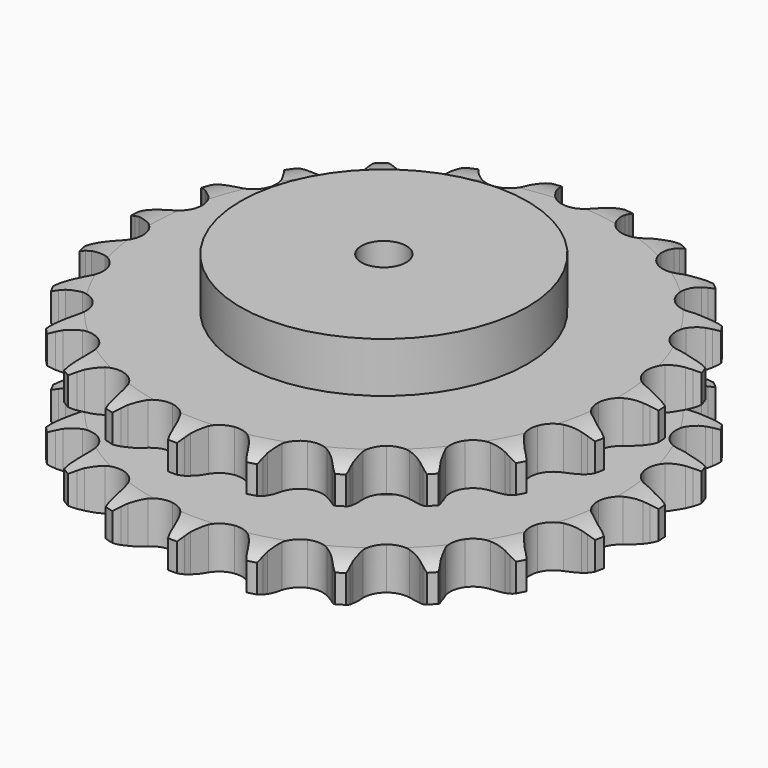
from build123d import *

# Parameters (mm, degrees)
PAD_DEPTH         = 72
SKETCH001_R       = 80
PAD001_DEPTH      = 100
SKETCH002_R       = 12.5
POCKET_DEPTH      = 0.001
POCKET_DEPTH_BACK = 100.001


with BuildPart() as part:
    # Sprocket → Pad (new body)
    with BuildSketch(Plane.XY):
        with BuildLine():
            ThreePointArc((-20.622899, 150.04273), (-17.858875, 146.726201), (-15.834347, 142.913002))
            Line((-15.834347, 142.913002), (-14.602945, 139.871822))
            ThreePointArc((-14.602945, 139.871822), (-12.636839, 135.829035), (-10.14139, 132.089725))
            ThreePointArc((-10.14139, 132.089725), (-5.65111, 128.415327), (0, 127.100499))
            ThreePointArc((0, 127.100499), (5.65111, 128.415327), (10.14139, 132.089725))
            ThreePointArc((10.14139, 132.089725), (12.636839, 135.829035), (14.602945, 139.871822))
            Line((14.602945, 139.871822), (15.834347, 142.913002))
            ThreePointArc((15.834347, 142.913002), (17.858875, 146.726201), (20.622899, 150.04273))
            ThreePointArc((20.622899, 150.04273), (22.389636, 146.103462), (23.3103, 141.885456))
            Line((23.3103, 141.885456), (23.675538, 138.624823))
            ThreePointArc((23.675538, 138.624823), (24.478004, 134.201504), (25.872062, 129.927594))
            ThreePointArc((25.872062, 129.927594), (29.204489, 125.17799), (34.291304, 122.387268))
            ThreePointArc((34.291304, 122.387268), (40.087592, 122.128687), (45.402701, 124.455366))
            Line((45.402701, 124.455366), (51.798394, 130.745168))
            ThreePointArc((51.798394, 130.745168), (52.769346, 132.068114), (53.804633, 133.341345))
            ThreePointArc((53.804633, 133.341345), (56.782875, 136.466928), (60.33919, 138.914748))
            ThreePointArc((60.33919, 138.914748), (60.977609, 134.644898), (60.726129, 130.334915))
            Line((60.726129, 130.334915), (60.198114, 127.096654))
            ThreePointArc((60.198114, 127.096654), (59.777426, 122.620862), (59.966701, 118.129328))
            ThreePointArc((59.966701, 118.129328), (61.894125, 112.656773), (66.039379, 108.597133))
            ThreePointArc((66.039379, 108.597133), (71.550961, 106.784322), (77.296701, 107.590721))
            Line((77.296701, 107.590721), (85.152193, 111.921743))
            ThreePointArc((85.152193, 111.921743), (86.444067, 112.933671), (87.784475, 113.88037))
            ThreePointArc((87.784475, 113.88037), (91.495548, 116.086528), (95.580399, 117.484093))
            ThreePointArc((95.580399, 117.484093), (95.043153, 113.200338), (93.638179, 109.118029))
            Line((93.638179, 109.118029), (92.256072, 106.142309))
            ThreePointArc((92.256072, 106.142309), (90.643429, 101.945991), (89.613884, 97.569949))
            ThreePointArc((89.613884, 97.569949), (89.993357, 91.780319), (92.889616, 86.752845))
            ThreePointArc((92.889616, 86.752845), (97.707722, 83.520251), (103.457959, 82.746565))
            Line((103.457959, 82.746565), (112.190644, 84.797594))
            ThreePointArc((112.190644, 84.797594), (113.707626, 85.423454), (115.253745, 85.973409))
            ThreePointArc((115.253745, 85.973409), (119.422416, 87.096521), (123.732848, 87.340181))
            ThreePointArc((123.732848, 87.340181), (122.059781, 83.360226), (119.605513, 79.808358))
            Line((119.605513, 79.808358), (117.471819, 77.315874))
            ThreePointArc((117.471819, 77.315874), (114.786824, 73.710252), (112.614816, 69.774254))
            ThreePointArc((112.614816, 69.774254), (111.418193, 64.096939), (112.850654, 58.474496))
            ThreePointArc((112.850654, 58.474496), (116.617949, 54.061866), (121.946213, 51.765475))
            Line((121.946213, 51.765475), (130.908427, 51.384396))
            ThreePointArc((130.908427, 51.384396), (132.538011, 51.57777), (134.175172, 51.690193))
            ThreePointArc((134.175172, 51.690193), (138.492269, 51.646964), (142.708597, 50.718648))
            ThreePointArc((142.708597, 50.718648), (140.023793, 47.337668), (136.702253, 44.579667))
            Line((136.702253, 44.579667), (133.975218, 42.755274))
            ThreePointArc((133.975218, 42.755274), (130.417005, 40.007762), (127.263621, 36.803722))
            ThreePointArc((127.263621, 36.803722), (124.579651, 31.659782), (124.442076, 25.859361))
            ThreePointArc((124.442076, 25.859361), (126.879156, 20.593959), (131.390275, 16.945176))
            Line((131.390275, 16.945176), (139.917332, 14.160252))
            ThreePointArc((139.917332, 14.160252), (141.538658, 13.906799), (143.14544, 13.573353))
            ThreePointArc((143.14544, 13.573353), (147.290784, 12.366987), (151.100303, 10.335544))
            ThreePointArc((151.100303, 10.335544), (147.602881, 7.804292), (143.660413, 6.044705))
            Line((143.660413, 6.044705), (140.542289, 5.023711))
            ThreePointArc((140.542289, 5.023711), (136.374754, 3.338078), (132.473867, 1.103626))
            ThreePointArc((132.473867, 1.103626), (128.501607, -3.125436), (126.804198, -8.673645))
            ThreePointArc((126.804198, -8.673645), (127.730316, -14.401307), (131.089721, -19.131869))
            Line((131.089721, -19.131869), (138.549208, -24.114093))
            ThreePointArc((138.549208, -24.114093), (140.04203, -24.795576), (141.499265, -25.550161))
            ThreePointArc((141.499265, -25.550161), (145.165415, -27.830192), (148.28559, -30.8141))
            ThreePointArc((148.28559, -30.8141), (144.234938, -32.307893), (139.963937, -32.938565))
            Line((139.963937, -32.938565), (136.68598, -33.080437))
            ThreePointArc((136.68598, -33.080437), (132.218211, -33.579175), (127.859131, -34.678321))
            ThreePointArc((127.859131, -34.678321), (122.893186, -37.678855), (119.761833, -42.563366))
            ThreePointArc((119.761833, -42.563366), (119.108303, -48.328495), (121.066842, -53.789991))
            Line((121.066842, -53.789991), (126.905523, -60.600006))
            ThreePointArc((126.905523, -60.600006), (128.159125, -61.658976), (129.358737, -62.778737))
            ThreePointArc((129.358737, -62.778737), (132.273792, -65.963333), (134.473213, -69.678403))
            ThreePointArc((134.473213, -69.678403), (130.16975, -70.023949), (125.886976, -69.478932))
            Line((125.886976, -69.478932), (122.692298, -68.731161))
            ThreePointArc((122.692298, -68.731161), (118.255648, -68.006014), (113.761669, -67.888335))
            ThreePointArc((113.761669, -67.888335), (108.17034, -69.437806), (103.837281, -73.296357))
            ThreePointArc((103.837281, -73.296357), (101.652572, -78.671379), (102.064989, -84.458755))
            Line((102.064989, -84.458755), (105.849836, -92.591494))
            ThreePointArc((105.849836, -92.591494), (106.771244, -93.949412), (107.624264, -95.351301))
            ThreePointArc((107.624264, -95.351301), (109.572027, -99.204276), (110.687574, -103.374977))
            ThreePointArc((110.687574, -103.374977), (106.450467, -102.54665), (102.473554, -100.866364))
            Line((102.473554, -100.866364), (99.59909, -99.284409))
            ThreePointArc((99.59909, -99.284409), (95.522605, -97.389159), (91.227024, -96.063383))
            ThreePointArc((91.227024, -96.063383), (85.424994, -96.046872), (80.211593, -98.593292))
            ThreePointArc((80.211593, -98.593292), (76.657735, -103.179566), (75.493443, -108.8636))
            Line((75.493443, -108.8636), (76.943751, -117.715894))
            ThreePointArc((76.943751, -117.715894), (77.464629, -119.27205), (77.907791, -120.852095))
            ThreePointArc((77.907791, -120.852095), (78.743805, -125.087691), (78.692743, -129.404703))
            ThreePointArc((78.692743, -129.404703), (74.83624, -127.463934), (71.460138, -124.773))
            Line((71.460138, -124.773), (69.119072, -122.474187))
            ThreePointArc((69.119072, -122.474187), (65.705087, -119.549395), (61.926488, -117.113848))
            ThreePointArc((61.926488, -117.113848), (56.344068, -115.532581), (50.636977, -116.578014))
            ThreePointArc((50.636977, -116.578014), (45.977545, -120.035398), (43.322893, -125.194529))
            Line((43.322893, -125.194529), (42.3311, -134.109845))
            ThreePointArc((42.3311, -134.109845), (42.412817, -135.748825), (42.413254, -137.389842))
            ThreePointArc((42.413254, -137.389842), (42.075516, -141.693925), (40.861632, -145.837073))
            ThreePointArc((40.861632, -145.837073), (37.671752, -142.927802), (35.146849, -139.425793))
            Line((35.146849, -139.425793), (33.51281, -136.580614))
            ThreePointArc((33.51281, -136.580614), (31.014523, -132.8432), (28.033147, -129.478515))
            ThreePointArc((28.033147, -129.478515), (23.08436, -126.449767), (17.306849, -125.916678))
            ThreePointArc((17.306849, -125.916678), (11.88741, -127.988753), (7.939283, -132.240353))
            Line((7.939283, -132.240353), (4.578945, -140.557482))
            ThreePointArc((4.578945, -140.557482), (4.21544, -142.157732), (3.77312, -143.738013))
            ThreePointArc((3.77312, -143.738013), (2.286678, -147.791368), (0, -151.453375))
            ThreePointArc((0, -151.453375), (-2.286678, -147.791368), (-3.77312, -143.738013))
            Line((-3.77312, -143.738013), (-4.578945, -140.557482))
            ThreePointArc((-4.578945, -140.557482), (-5.976246, -136.284632), (-7.939283, -132.240353))
            ThreePointArc((-7.939283, -132.240353), (-11.88741, -127.988753), (-17.306849, -125.916678))
            ThreePointArc((-17.306849, -125.916678), (-23.08436, -126.449767), (-28.033147, -129.478515))
            Line((-28.033147, -129.478515), (-33.51281, -136.580614))
            ThreePointArc((-33.51281, -136.580614), (-34.294577, -138.023449), (-35.146849, -139.425793))
            ThreePointArc((-35.146849, -139.425793), (-37.671752, -142.927802), (-40.861632, -145.837073))
            ThreePointArc((-40.861632, -145.837073), (-42.075516, -141.693925), (-42.413254, -137.389842))
            Line((-42.413254, -137.389842), (-42.3311, -134.109845))
            ThreePointArc((-42.3311, -134.109845), (-42.523784, -129.618456), (-43.322893, -125.194529))
            ThreePointArc((-43.322893, -125.194529), (-45.977545, -120.035398), (-50.636977, -116.578014))
            ThreePointArc((-50.636977, -116.578014), (-56.344068, -115.532581), (-61.926488, -117.113848))
            Line((-61.926488, -117.113848), (-69.119072, -122.474187))
            ThreePointArc((-69.119072, -122.474187), (-70.261122, -123.652599), (-71.460138, -124.773))
            ThreePointArc((-71.460138, -124.773), (-74.83624, -127.463934), (-78.692743, -129.404703))
            ThreePointArc((-78.692743, -129.404703), (-78.743805, -125.087691), (-77.907791, -120.852095))
            Line((-77.907791, -120.852095), (-76.943751, -117.715894))
            ThreePointArc((-76.943751, -117.715894), (-75.917527, -113.339072), (-75.493443, -108.8636))
            ThreePointArc((-75.493443, -108.8636), (-76.657735, -103.179566), (-80.211593, -98.593292))
            ThreePointArc((-80.211593, -98.593292), (-85.424994, -96.046872), (-91.227024, -96.063383))
            Line((-91.227024, -96.063383), (-99.59909, -99.284409))
            ThreePointArc((-99.59909, -99.284409), (-101.016721, -100.111001), (-102.473554, -100.866364))
            ThreePointArc((-102.473554, -100.866364), (-106.450467, -102.54665), (-110.687574, -103.374977))
            ThreePointArc((-110.687574, -103.374977), (-109.572027, -99.204276), (-107.624264, -95.351301))
            Line((-107.624264, -95.351301), (-105.849836, -92.591494))
            ThreePointArc((-105.849836, -92.591494), (-103.680815, -88.653848), (-102.064989, -84.458755))
            ThreePointArc((-102.064989, -84.458755), (-101.652572, -78.671379), (-103.837281, -73.296357))
            ThreePointArc((-103.837281, -73.296357), (-108.17034, -69.437806), (-113.761669, -67.888335))
            Line((-113.761669, -67.888335), (-122.692298, -68.731161))
            ThreePointArc((-122.692298, -68.731161), (-124.280372, -69.144629), (-125.886976, -69.478932))
            ThreePointArc((-125.886976, -69.478932), (-130.16975, -70.023949), (-134.473213, -69.678403))
            ThreePointArc((-134.473213, -69.678403), (-132.273792, -65.963333), (-129.358737, -62.778737))
            Line((-129.358737, -62.778737), (-126.905523, -60.600006))
            ThreePointArc((-126.905523, -60.600006), (-123.754572, -57.393574), (-121.066842, -53.789991))
            ThreePointArc((-121.066842, -53.789991), (-119.108303, -48.328495), (-119.761833, -42.563366))
            ThreePointArc((-119.761833, -42.563366), (-122.893186, -37.678855), (-127.859131, -34.678321))
            Line((-127.859131, -34.678321), (-136.68598, -33.080437))
            ThreePointArc((-136.68598, -33.080437), (-138.326717, -33.050115), (-139.963937, -32.938565))
            ThreePointArc((-139.963937, -32.938565), (-144.234938, -32.307893), (-148.28559, -30.8141))
            ThreePointArc((-148.28559, -30.8141), (-145.165415, -27.830192), (-141.499265, -25.550161))
            Line((-141.499265, -25.550161), (-138.549208, -24.114093))
            ThreePointArc((-138.549208, -24.114093), (-134.650017, -21.876681), (-131.089721, -19.131869))
            ThreePointArc((-131.089721, -19.131869), (-127.730316, -14.401307), (-126.804198, -8.673645))
            ThreePointArc((-126.804198, -8.673645), (-128.501607, -3.125436), (-132.473867, 1.103626))
            Line((-132.473867, 1.103626), (-140.542289, 5.023711))
            ThreePointArc((-140.542289, 5.023711), (-142.114001, 5.495574), (-143.660413, 6.044705))
            ThreePointArc((-143.660413, 6.044705), (-147.602881, 7.804292), (-151.100303, 10.335544))
            ThreePointArc((-151.100303, 10.335544), (-147.290784, 12.366987), (-143.14544, 13.573353))
            Line((-143.14544, 13.573353), (-139.917332, 14.160252))
            ThreePointArc((-139.917332, 14.160252), (-135.559087, 15.262706), (-131.390275, 16.945176))
            ThreePointArc((-131.390275, 16.945176), (-126.879156, 20.593959), (-124.442076, 25.859361))
            ThreePointArc((-124.442076, 25.859361), (-124.579651, 31.659782), (-127.263621, 36.803722))
            Line((-127.263621, 36.803722), (-133.975218, 42.755274))
            ThreePointArc((-133.975218, 42.755274), (-135.36134, 43.633682), (-136.702253, 44.579667))
            ThreePointArc((-136.702253, 44.579667), (-140.023793, 47.337668), (-142.708597, 50.718648))
            ThreePointArc((-142.708597, 50.718648), (-138.492269, 51.646964), (-134.175172, 51.690193))
            Line((-134.175172, 51.690193), (-130.908427, 51.384396))
            ThreePointArc((-130.908427, 51.384396), (-126.41436, 51.270127), (-121.946213, 51.765475))
            ThreePointArc((-121.946213, 51.765475), (-116.617949, 54.061866), (-112.850654, 58.474496))
            ThreePointArc((-112.850654, 58.474496), (-111.418193, 64.096939), (-112.614816, 69.774254))
            Line((-112.614816, 69.774254), (-117.471819, 77.315874))
            ThreePointArc((-117.471819, 77.315874), (-118.569548, 78.535679), (-119.605513, 79.808358))
            ThreePointArc((-119.605513, 79.808358), (-122.059781, 83.360226), (-123.732848, 87.340181))
            ThreePointArc((-123.732848, 87.340181), (-119.422416, 87.096521), (-115.253745, 85.973409))
            Line((-115.253745, 85.973409), (-112.190644, 84.797594))
            ThreePointArc((-112.190644, 84.797594), (-107.894058, 83.475078), (-103.457959, 82.746565))
            ThreePointArc((-103.457959, 82.746565), (-97.707722, 83.520251), (-92.889616, 86.752845))
            ThreePointArc((-92.889616, 86.752845), (-89.993357, 91.780319), (-89.613884, 97.569949))
            Line((-89.613884, 97.569949), (-92.256072, 106.142309))
            ThreePointArc((-92.256072, 106.142309), (-92.983995, 107.613045), (-93.638179, 109.118029))
            ThreePointArc((-93.638179, 109.118029), (-95.043153, 113.200338), (-95.580399, 117.484093))
            ThreePointArc((-95.580399, 117.484093), (-91.495548, 116.086528), (-87.784475, 113.88037))
            Line((-87.784475, 113.88037), (-85.152193, 111.921743))
            ThreePointArc((-85.152193, 111.921743), (-81.371747, 109.489064), (-77.296701, 107.590721))
            ThreePointArc((-77.296701, 107.590721), (-71.550961, 106.784322), (-66.039379, 108.597133))
            ThreePointArc((-66.039379, 108.597133), (-61.894125, 112.656773), (-59.966701, 118.129328))
            Line((-59.966701, 118.129328), (-60.198114, 127.096654))
            ThreePointArc((-60.198114, 127.096654), (-60.502244, 128.709242), (-60.726129, 130.334915))
            ThreePointArc((-60.726129, 130.334915), (-60.977609, 134.644898), (-60.33919, 138.914748))
            ThreePointArc((-60.33919, 138.914748), (-56.782875, 136.466928), (-53.804633, 133.341345))
            Line((-53.804633, 133.341345), (-51.798394, 130.745168))
            ThreePointArc((-51.798394, 130.745168), (-48.814466, 127.382747), (-45.402701, 124.455366))
            ThreePointArc((-45.402701, 124.455366), (-40.087592, 122.128687), (-34.291304, 122.387268))
            ThreePointArc((-34.291304, 122.387268), (-29.204489, 125.17799), (-25.872062, 129.927594))
            Line((-25.872062, 129.927594), (-23.675538, 138.624823))
            ThreePointArc((-23.675538, 138.624823), (-23.533319, 140.259665), (-23.3103, 141.885456))
            ThreePointArc((-23.3103, 141.885456), (-22.389636, 146.103462), (-20.622899, 150.04273))
        make_face()
    extrude(amount=PAD_DEPTH)

    # Sketch → Groove (revolve, cut)
    with BuildSketch(Plane.XZ):
        with BuildLine():
            ThreePointArc((130.429437, 0), (139.147235, 1.013516), (147.4, 4))
            Line((147.4, 4), (147.4, 19.6))
            ThreePointArc((147.4, 19.6), (139.147235, 22.586484), (130.429437, 23.6))
            Line((80, 23.6), (130.429437, 23.6))
            Line((80, 48.4), (80, 23.6))
            Line((130.429437, 48.4), (80, 48.4))
            ThreePointArc((130.429437, 48.4), (139.147235, 49.413516), (147.4, 52.4))
            Line((147.4, 52.4), (147.4, 68))
            ThreePointArc((147.4, 68), (139.147235, 70.986484), (130.429437, 72))
            Line((130.429437, 72), (157.4, 72))
            Line((157.4, 72), (157.4, 0))
            Line((130.429437, 0), (157.4, 0))
        make_face()
    revolve(axis=Axis((0, 0, 0), (0, 0, 1)), mode=Mode.SUBTRACT)

    # Sketch001 → Pad001 (join)
    with BuildSketch(Plane.XY):
        Circle(SKETCH001_R)
    extrude(amount=PAD001_DEPTH)

    # Sketch002 → Pocket (cut, two sides)
    with BuildSketch(Plane.XY) as pocket_sk:
        Circle(SKETCH002_R)
    extrude(amount=-POCKET_DEPTH, mode=Mode.SUBTRACT)
    extrude(pocket_sk.sketch, amount=POCKET_DEPTH_BACK, mode=Mode.SUBTRACT)


solid = part.part
